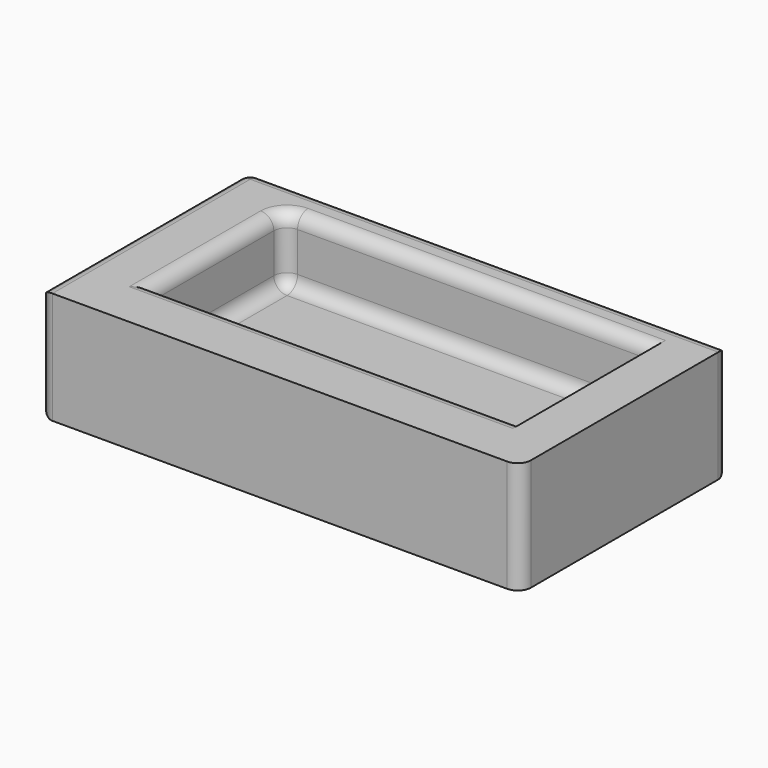
from build123d import *

# Parameters (mm, degrees)
F0_W     = 185.310639
F0_H     = 100.29944
F1_DEPTH = 43.18
F2_W     = 142.667748
F2_H     = 63.255836
F3_DEPTH = 25.4
F4_R     = 5.08


with BuildPart() as f1:
    # F0 (on Top) → F1 (new body)
    with BuildSketch(Plane.XY):
        with Locations((10.269184, 4.973244)):
            Rectangle(F0_W, F0_H)
    extrude(amount=F1_DEPTH)

    # F2 (on face) → F3 (cut)
    with BuildSketch(Plane.XY.offset(43.18)):
        with Locations((14.403265, 9.399725)):
            Rectangle(F2_W, F2_H)
    extrude(amount=-F3_DEPTH, mode=Mode.SUBTRACT)

    # F4
    f4_edges = [f1.edges().sort_by_distance(p)[0] for p in [
        (-82.386136, -45.176476, 21.59),
        (102.924503, -45.176476, 21.59),
        (102.924503, 55.122964, 21.59),
        (10.269184, 55.122964, 43.18),
        (14.403265, 41.027643, 43.18),
        (-82.386136, 55.122964, 21.59),
        (-56.930609, 41.027643, 30.48),
        (14.403265, -22.228193, 43.18),
        (14.403265, 41.027643, 17.78),
        (-56.930609, 9.399725, 43.18),
        (-56.930609, 9.399725, 17.78),
        (10.269184, 55.122964, 0),
        (-82.386136, 4.973244, 43.18),
        (-82.386136, 4.973244, 0),
    ]]
    fillet(f4_edges, radius=F4_R)


solid = f1.part
